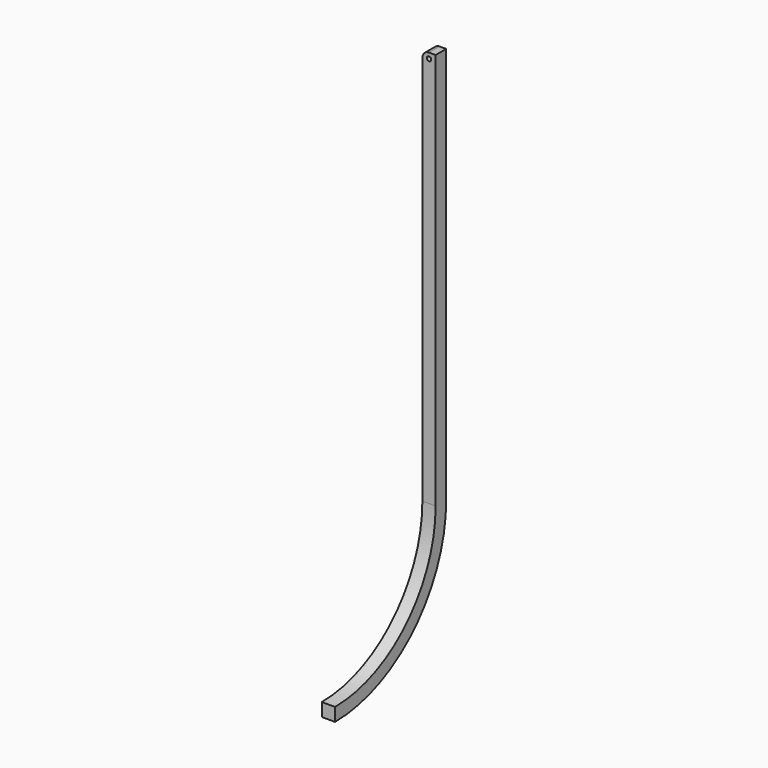
from build123d import *

# Parameters (mm, degrees)
F2_DEPTH = 3
F1_R     = 0.5
F3_DEPTH = 1.5
F4_DEPTH = 1.5
F5_R     = 1.5


with BuildPart() as f2:
    # F0 (on Right) → F2 (new body)
    with BuildSketch(Plane.YZ):
        with BuildLine():
            Line((1.5, 0), (-1.5, 0))
            Line((-1.5, 0), (-1.5, -90))
            ThreePointArc((-1.5, -90), (-9.847457, -110.152543), (-30, -118.5))
            Line((-30, -118.5), (-30, -121.5))
            ThreePointArc((-30, -121.5), (-7.726136, -112.273864), (1.5, -90))
            Line((1.5, -90), (1.5, 0))
        make_face()
    extrude(amount=F2_DEPTH)

    # F1 (on Front) → F3 (cut)
    with BuildSketch(Plane.XZ):
        with Locations((1.5, -1.25)):
            Circle(F1_R)
    extrude(amount=-F3_DEPTH, mode=Mode.SUBTRACT)

    # F1 (on Front) → F4 (cut)
    with BuildSketch(Plane.XZ):
        with Locations((1.5, -1.25)):
            Circle(F1_R)
    extrude(amount=F4_DEPTH, mode=Mode.SUBTRACT)

    # F5
    f5_edges = [f2.edges().sort_by_distance(p)[0] for p in [
        (0, 0, 0),
    ]]
    fillet(f5_edges, radius=F5_R)


solid = f2.part
